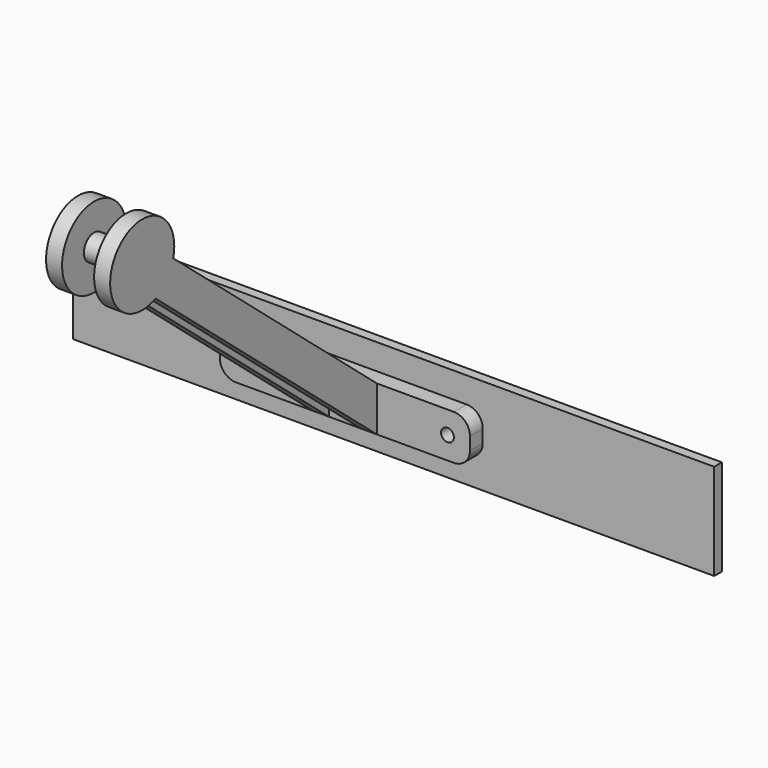
from build123d import *

# Parameters (mm, degrees)
F0_W     = 200
F0_H     = 30
F0_R     = 2
F1_DEPTH = 3
F2_W     = 78
F2_H     = 14
F2_R     = 2
F3_DEPTH = 5
F4_R     = 5
F6_R     = 4
F7_DEPTH = 5
F9_DEPTH = 15


with BuildPart() as f1:
    # F0 (on Front) → F1 (new body)
    with BuildSketch(Plane.XZ):
        with Locations((11.214479804, 15)):
            Rectangle(F0_W, F0_H)
        with Locations((-32, 15)):
            Circle(F0_R, mode=Mode.SUBTRACT)
        with BuildLine():
            ThreePointArc((34, 15), (32, 13), (30, 15))
            ThreePointArc((30, 15), (32, 17), (34, 15))
        make_face(mode=Mode.SUBTRACT)
    extrude(amount=F1_DEPTH)


with BuildPart() as f3:
    # F2 (on face) → F3 (new body)
    with BuildSketch(Plane.XZ.offset(3)):
        with Locations((0, 15)):
            Rectangle(F2_W, F2_H)
        with Locations((-32, 15)):
            Circle(F2_R, mode=Mode.SUBTRACT)
        with Locations((32, 15)):
            Circle(F2_R, mode=Mode.SUBTRACT)
    extrude(amount=F3_DEPTH)

    # F4
    f4_edges = [f3.edges().sort_by_distance(p)[0] for p in [
        (-39, -5.5, 22),
        (-39, -5.5, 8),
        (39, -5.5, 8),
        (39, -5.5, 22),
    ]]
    fillet(f4_edges, radius=F4_R)

    # F8: F7 across plane


with BuildPart() as f7:
    # F6 (on offset) → F7 (new body)
    with BuildSketch(Plane.YZ.offset(-10)):
        with BuildLine():
            Line((-8, 8), (-8, 22))
            Line((-8, 22), (-87.4453999329, 88.6626057824))
            ThreePointArc((-87.4453999329, 88.6626057824), (-89.9663825552, 83.777961371), (-94.339054204, 80.4470685388))
            Line((-94.339054204, 80.4470685388), (-8, 8))
        make_face()
        with BuildLine():
            ThreePointArc((-94.339054204, 80.4470685388), (-89.9663825552, 83.777961371), (-87.4453999329, 88.6626057824))
            Line((-87.4453999329, 88.6626057824), (-99.9253331743, 99.1345131624))
            Line((-99.9253331743, 99.1345131624), (-106.8189874454, 90.9189759187))
            Line((-106.8189874454, 90.9189759187), (-94.339054204, 80.4470685388))
        make_face()
        with Locations((-99.5419380942, 91.8128064921)):
            Circle(F6_R, mode=Mode.SUBTRACT)
        with BuildLine():
            Line((-99.9253331743, 99.1345131624), (-87.4453999329, 88.6626057824))
            ThreePointArc((-87.4453999329, 88.6626057824), (-87.1432138248, 90.2248403427), (-87.0419380942, 91.8128064921))
            ThreePointArc((-87.0419380942, 91.8128064921), (-110.060636888, 98.5661001838), (-94.339054204, 80.4470685388))
            Line((-94.339054204, 80.4470685388), (-106.8189874454, 90.9189759187))
            Line((-106.8189874454, 90.9189759187), (-99.9253331743, 99.1345131624))
        make_face()
        with Locations((-99.5419380942, 91.8128064921)):
            Circle(F6_R)
    extrude(amount=F7_DEPTH)


with BuildPart() as f3_1:
    add(f3.part)
    add(f7.part.mirror(Plane.YZ))


    add(f7.part)  # F9 merges F7
    # F6 (on offset) → F9 (join, through all)
    with BuildSketch(Plane.YZ.offset(-10)):
        with Locations((-99.5419380942, 91.8128064921)):
            Circle(F6_R)
    extrude(amount=F9_DEPTH)


solid = Compound([f1.part, f3_1.part])
